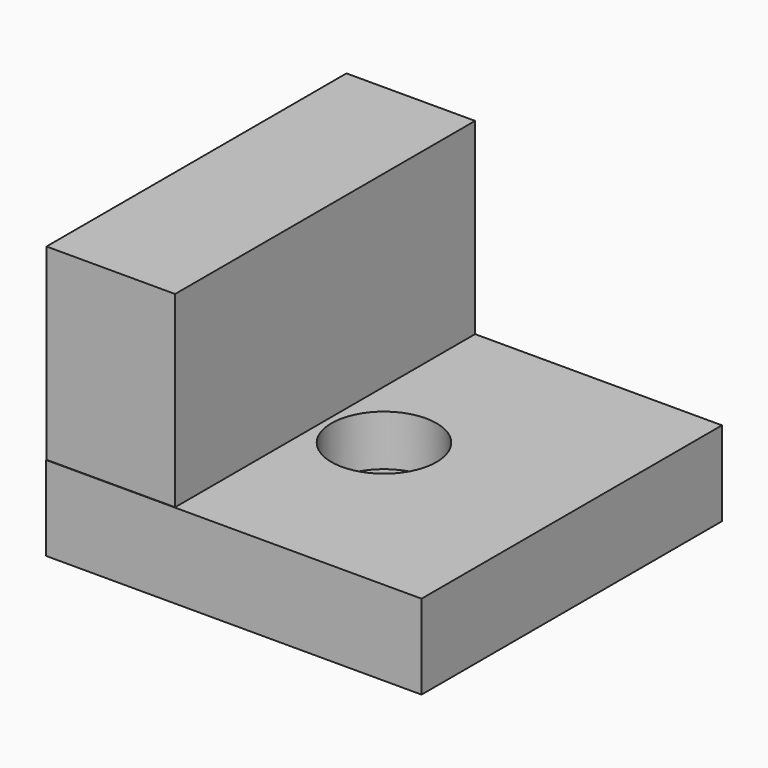
from build123d import *

# Parameters (mm, degrees)
SKETCH_W        = 20
SKETCH_H        = 20
PAD_DEPTH       = 4.5
SKETCH001_R     = 1.7
POCKET_DEPTH    = 5
SKETCH002_R     = 2.8
POCKET001_DEPTH = 2.7
SKETCH003_W     = 6.85081
SKETCH003_H     = 19.972413
PAD001_DEPTH    = 10


with BuildPart() as part:
    # Sketch → Pad (new body)
    with BuildSketch(Plane.XY):
        Rectangle(SKETCH_W, SKETCH_H)
    extrude(amount=PAD_DEPTH)

    # Sketch001 (on Face6 of Pad) → Pocket (cut)
    with BuildSketch(Plane.XY.offset(4.5)):
        Circle(SKETCH001_R)
    extrude(amount=-POCKET_DEPTH, mode=Mode.SUBTRACT)

    # Sketch002 (on Face5 of Pocket) → Pocket001 (cut)
    with BuildSketch(Plane.XY.offset(4.5)):
        Circle(SKETCH002_R)
    extrude(amount=-POCKET001_DEPTH, mode=Mode.SUBTRACT)

    # Sketch003 (on Face5 of Pocket001) → Pad001 (join)
    with BuildSketch(Plane.XY.offset(4.5)):
        with Locations((-6.574595, 0.013794)):
            Rectangle(SKETCH003_W, SKETCH003_H)
    extrude(amount=PAD001_DEPTH)


solid = part.part
